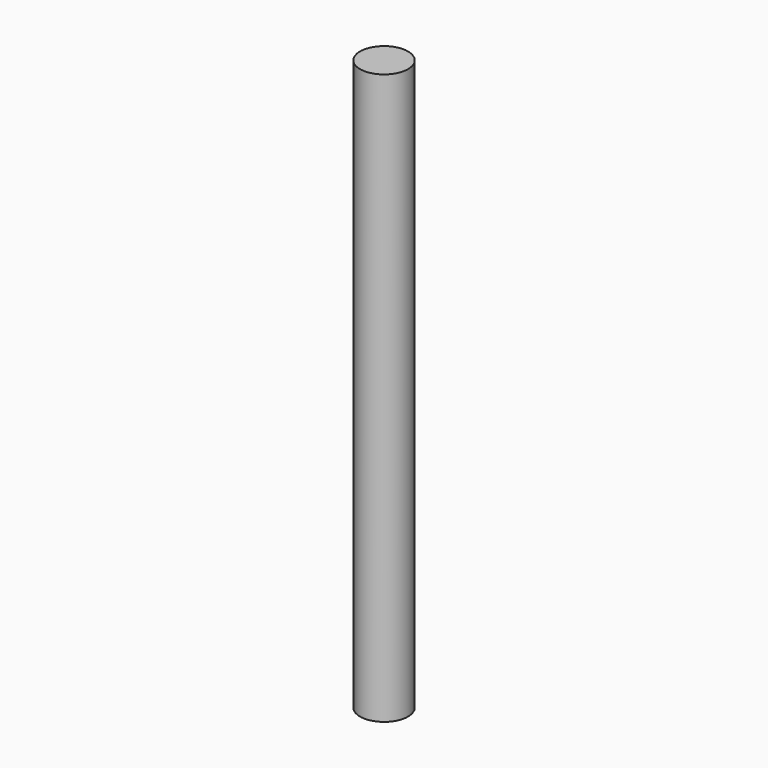
from build123d import *

# Parameters (mm, degrees)
SKETCH_R  = 20
PAD_DEPTH = 237.5


with BuildPart() as part:
    # Sketch → Pad (new body, symmetric)
    with BuildSketch(Plane.XY):
        Circle(SKETCH_R)
    extrude(amount=PAD_DEPTH, both=True)


solid = part.part
